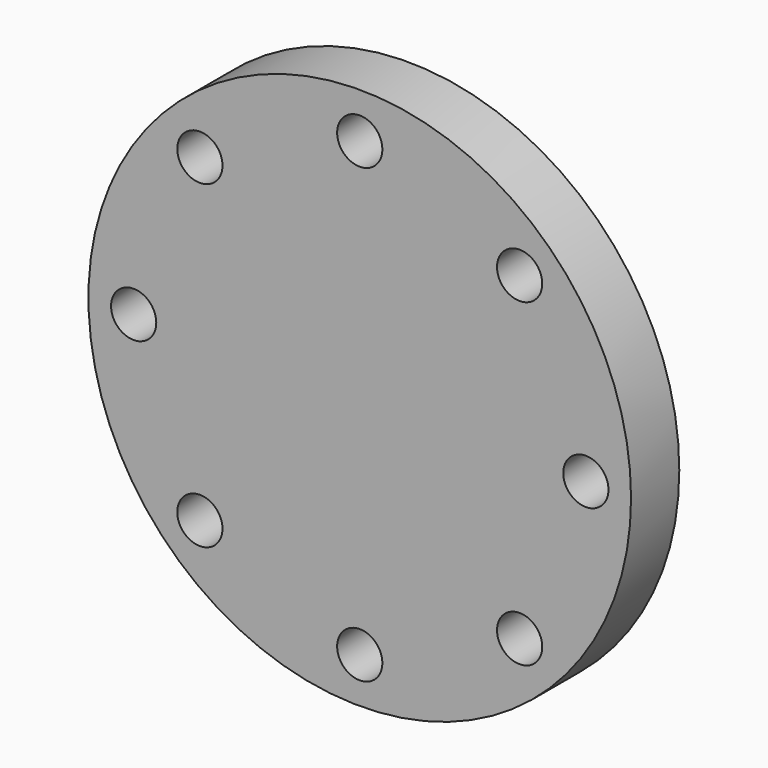
from build123d import *

# Parameters (mm, degrees)
F0_W     = 63.1698
F0_H     = 25.4
F0_W_2   = 51.1302
F2_R     = 9.525
F3_DEPTH = 25.4


with BuildPart() as f1:
    # F0 (on Top) → F1 (revolve)
    with BuildSketch(Plane.XY):
        with Locations((82.7151, 12.7)):
            Rectangle(F0_W, F0_H)
        with Locations((25.5651, 12.7)):
            Rectangle(F0_W_2, F0_H)
    revolve(axis=Axis((0, 12.7, 0), (0, -1, 0)))

    # F2 (on face) → F3 (cut, through all)
    with BuildSketch(Plane.XZ):
        with Locations((-95.25, 0)):
            Circle(F2_R)
        with Locations((-67.351921, -67.351921)):
            Circle(F2_R)
        with Locations((0, -95.25)):
            Circle(F2_R)
        with Locations((67.351921, -67.351921)):
            Circle(F2_R)
        with Locations((95.25, 0)):
            Circle(F2_R)
        with Locations((67.351921, 67.351921)):
            Circle(F2_R)
        with Locations((0, 95.25)):
            Circle(F2_R)
        with Locations((-67.351921, 67.351921)):
            Circle(F2_R)
    extrude(amount=-F3_DEPTH, mode=Mode.SUBTRACT)


solid = f1.part
